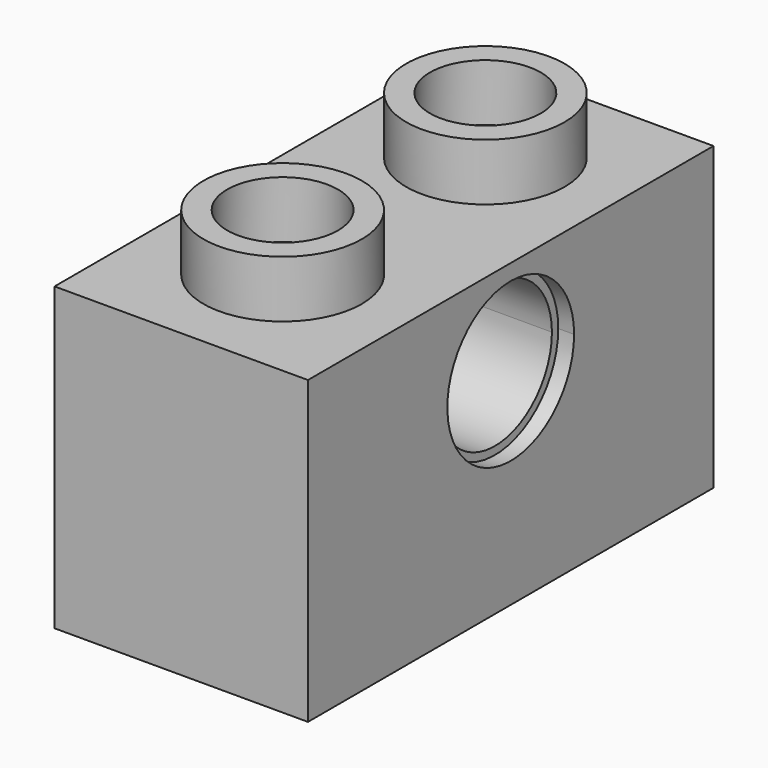
from build123d import *

# Parameters (mm, degrees)
F1_W      = 8
F1_H      = 16
F1_W_2    = 5
F1_H_2    = 13
F2_DEPTH  = 8
F3_W      = 8
F3_H      = 16
F3_W_2    = 5
F3_H_2    = 13
F4_DEPTH  = 1.5
F5_R      = 2.5
F5_R_2    = 1.75
F6_DEPTH  = 1.8
F8_DEPTH  = 7.9
F10_DEPTH = 25
F11_DEPTH = 0.5
F12_R     = 2.5
F12_R_2   = 2.25
F13_DEPTH = 0.5
F15_DEPTH = 4.2


with BuildPart() as f2:
    # F1 (on face) → F2 (new body)
    with BuildSketch(Plane.XY):
        with Locations((-31.9046421945, 0.9305412807)):
            Rectangle(F1_W, F1_H)
        with Locations((-31.9046421945, 0.9305412807)):
            Rectangle(F1_W_2, F1_H_2, mode=Mode.SUBTRACT)
    extrude(amount=F2_DEPTH)

    # F3 (on face) → F4 (join)
    with BuildSketch(Plane.XY.offset(8)):
        with Locations((-31.9046421945, 0.9305412807)):
            Rectangle(F3_W, F3_H)
        with Locations((-31.9046421945, 0.9305412807)):
            Rectangle(F3_W_2, F3_H_2, mode=Mode.SUBTRACT)
        with Locations((-31.9046421945, 0.9305412807)):
            Rectangle(F3_W_2, F3_H_2)
    extrude(amount=F4_DEPTH)

    # F5 (on face) → F6 (join)
    with BuildSketch(Plane.XY.offset(9.5)):
        with Locations((-31.9046421945, -3.0694587193)):
            Circle(F5_R)
        with Locations((-31.9046421945, -3.0694587193)):
            Circle(F5_R_2, mode=Mode.SUBTRACT)
        with Locations((-31.9046421945, 4.9305412807)):
            Circle(F5_R)
        with Locations((-31.9046421945, 4.9305412807)):
            Circle(F5_R_2, mode=Mode.SUBTRACT)
    extrude(amount=F6_DEPTH)

    # F7 (on face) → F8 (join)
    with BuildSketch(Plane.YZ.offset(-27.9046421945)):
        with BuildLine():
            ThreePointArc((0.9305412807, 9.5), (-1.1907790629, 4.3786796564), (3.9305412807, 6.5))
            ThreePointArc((3.9305412807, 6.5), (3.0518616242, 8.6213203436), (0.9305412807, 9.5))
        make_face()
    extrude(amount=-F8_DEPTH)

    # F9 (on face) → F10 (cut)
    with BuildSketch(Plane.YZ.offset(-27.9046421945)):
        with BuildLine():
            ThreePointArc((3.1805412807, 6.5), (2.5215315383, 8.0909902577), (0.9305412807, 8.75))
            ThreePointArc((0.9305412807, 8.75), (-0.660448977, 4.9090097423), (3.1805412807, 6.5))
        make_face()
    extrude(amount=-F10_DEPTH, mode=Mode.SUBTRACT)

    # F9 (on face) → F11 (cut)
    with BuildSketch(Plane.YZ.offset(-27.9046421945)):
        with BuildLine():
            ThreePointArc((0.9305412807, 9), (-0.8372256723, 4.732233047), (3.4305412807, 6.5))
            ThreePointArc((3.4305412807, 6.5), (2.6983082336, 8.267766953), (0.9305412807, 9))
        make_face()
        with BuildLine():
            ThreePointArc((3.1805412807, 6.5), (-0.660448977, 4.9090097423), (0.9305412807, 8.75))
            ThreePointArc((0.9305412807, 8.75), (2.5215315383, 8.0909902577), (3.1805412807, 6.5))
        make_face(mode=Mode.SUBTRACT)
    extrude(amount=-F11_DEPTH, mode=Mode.SUBTRACT)

    # F12 (on face) → F13 (cut)
    with BuildSketch(Plane(origin=(-35.9046421945, 0, 0), x_dir=(0, -1, 0), z_dir=(-1, 0, 0))):
        with Locations((-0.9305412807, 6.5)):
            Circle(F12_R)
        with Locations((-0.9305412807, 6.5)):
            Circle(F12_R_2, mode=Mode.SUBTRACT)
    extrude(amount=-F13_DEPTH, mode=Mode.SUBTRACT)

    # F14 (on Top) → F15 (join)
    with BuildSketch(Plane.XY):
        with BuildLine():
            ThreePointArc((-30.4045602381, 0.9304907289), (-31.9045602381, 2.4304907289), (-33.4045602381, 0.9304907289))
            ThreePointArc((-33.4045602381, 0.9304907289), (-31.9045602381, -0.5695092711), (-30.4045602381, 0.9304907289))
        make_face()
        with BuildLine():
            ThreePointArc((-31.1545602381, 0.9304907289), (-31.9045602381, 0.1804907289), (-32.6545602381, 0.9304907289))
            ThreePointArc((-32.6545602381, 0.9304907289), (-31.9045602381, 1.6804907289), (-31.1545602381, 0.9304907289))
        make_face(mode=Mode.SUBTRACT)
    extrude(amount=F15_DEPTH)


solid = f2.part
